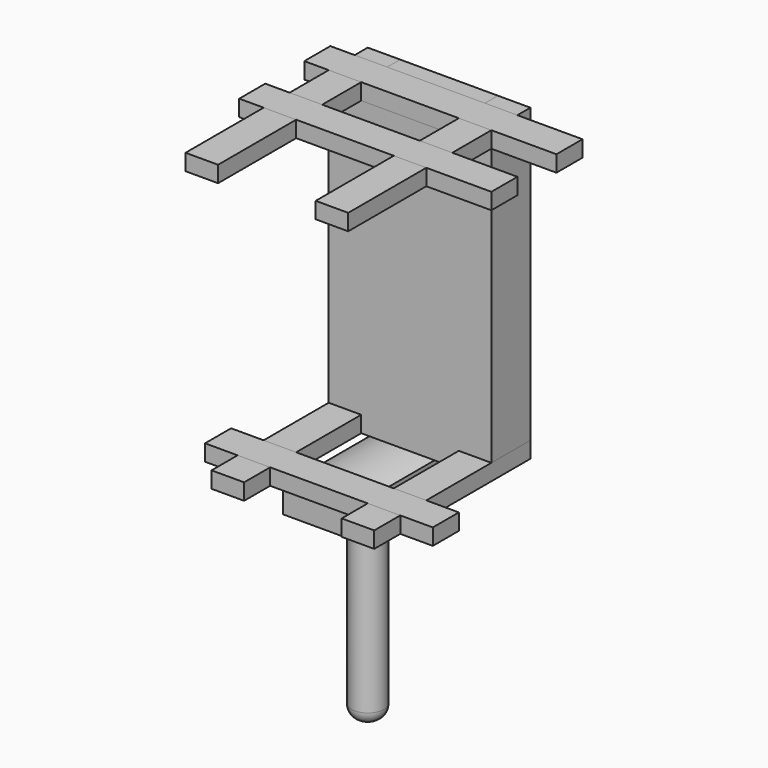
from build123d import *

# Parameters (mm, degrees)
F1_DEPTH  = 19.05
F2_W      = 12.7
F2_H      = 6.35
F3_DEPTH  = 76.2
F4_W      = 12.7
F4_H      = 6.35
F5_DEPTH  = 88.9
F7_DEPTH  = 25.4
F8_R      = 6.35
F9_DEPTH  = 76.2
F10_R     = 5.08
F11_W     = 98.425
F11_H     = 12.7
F12_DEPTH = 6.35
F13_W     = 88.9
F13_H     = 12.7
F14_DEPTH = 6.35


with BuildPart() as f1:
    # F0 (on Front) → F1 (new body)
    with BuildSketch(Plane.XZ):
        Polygon((12.7, 6.35), (12.7, 0), (50.8, 0), (50.8, 6.35), (63.5, 6.35), (63.5, 114.3), (50.8, 114.3), (50.8, 120.65), (12.7, 120.65), (12.7, 114.3), (0, 114.3), (0, 6.35), align=None)
    extrude(amount=F1_DEPTH)


with BuildPart() as f3:
    # F2 (on Front) → F3 (new body)
    with BuildSketch(Plane.XZ):
        with Locations((6.35, 3.175)):
            Rectangle(F2_W, F2_H)
        with Locations((57.15, 3.175)):
            Rectangle(F2_W, F2_H)
    extrude(amount=F3_DEPTH)


with BuildPart() as f5:
    # F4 (on Front) → F5 (new body)
    with BuildSketch(Plane.XZ):
        with Locations((6.35, 117.475)):
            Rectangle(F4_W, F4_H)
        with Locations((57.15, 117.475)):
            Rectangle(F4_W, F4_H)
    extrude(amount=F5_DEPTH)


with BuildPart() as f7:
    # F6 (on Front) → F7 (new body, symmetric)
    with BuildSketch(Plane.XZ):
        with BuildLine():
            Line((12.7, -33.572016), (12.7, -23.858269))
            ThreePointArc((12.7, -23.858269), (0, -20.872016), (-12.7, -23.858269))
            Line((-12.7, -23.858269), (-12.7, -33.572016))
            Line((-12.7, -33.572016), (12.7, -33.572016))
        make_face()
    extrude(amount=F7_DEPTH, both=True)

    # F8 (on face) → F9 (join)
    with BuildSketch(Plane(origin=(0, 0, -33.572016), x_dir=(1, 0, 0), z_dir=(0, 0, -1))):
        Circle(F8_R)
    extrude(amount=F9_DEPTH)

    # F10
    f10_edges = [f7.edges().sort_by_distance(p)[0] for p in [
        (-6.35, 0, -109.772016),
    ]]
    fillet(f10_edges, radius=F10_R)


with BuildPart() as f12:
    # F11 (on face) → F12 (new body, through all)
    with BuildSketch(Plane.XY.offset(120.65)):
        with Locations((39.6875, -12.7)):
            Rectangle(F11_W, F11_H)
        with Locations((39.6875, -44.45)):
            Rectangle(F11_W, F11_H)
    extrude(amount=-F12_DEPTH)


with BuildPart() as f14:
    # F13 (on Top) → F14 (new body, through all)
    with BuildSketch(Plane.XY):
        with Locations((31.75, -57.15)):
            Rectangle(F13_W, F13_H)
    extrude(amount=F14_DEPTH)


with BuildPart() as f1_1:
    add(f1.part)

    # F15: cut F12
    add(f12.part, mode=Mode.SUBTRACT)


solid = Compound([f3.part, f5.part, f7.part, f12.part, f14.part, f1_1.part])
